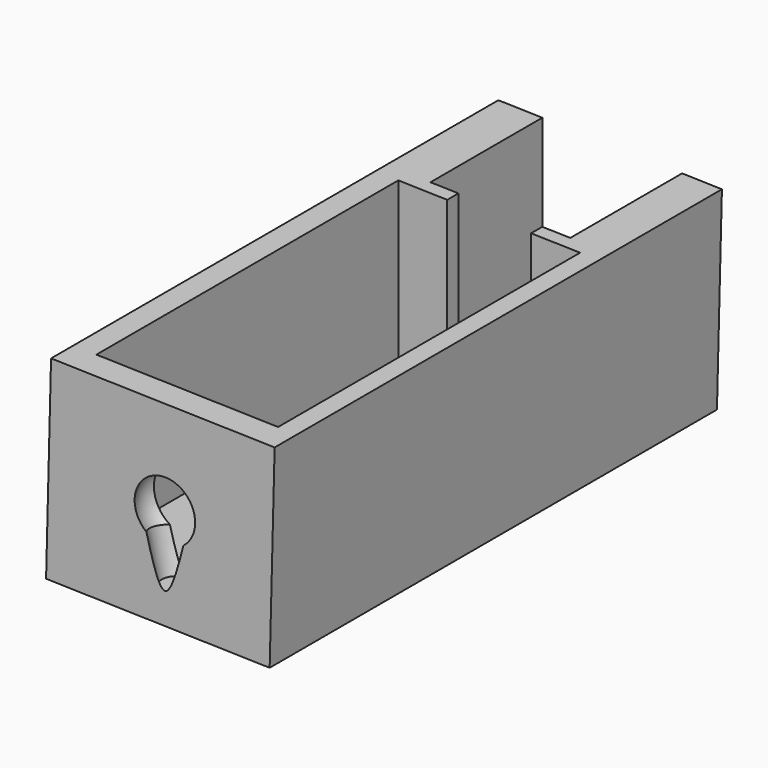
from build123d import *

# Parameters (mm, degrees)
BOX003_W        = 6
BOX003_H        = 4
BOX003_DEPTH    = 15
BOX002_W        = 10
BOX002_H        = 10
BOX002_DEPTH    = 15
BOX001_W        = 13
BOX001_H        = 27
BOX001_DEPTH    = 12
BOX_W           = 16
BOX_H           = 40
BOX_DEPTH       = 14
BOX_PITCH_ANGLE = 1.455764


with BuildPart() as cone:
    # Cone → Cone (revolve)
    with BuildSketch(Plane(origin=(8.5, 1, 2), x_dir=(1, 0, 0), z_dir=(0, -1, 0))):
        Polygon((0, 0), (1, 0), (2, 5), (0, 5), align=None)
    revolve(axis=Axis((8.5, 1, 2), (0, 0, 1)))


with BuildPart() as pinhole:
    # Sphere → Sphere (revolve)
    with BuildSketch(Plane(origin=(8.5, 1.25, 7), x_dir=(1, 0, 0), z_dir=(0, -1, 0))):
        with BuildLine():
            ThreePointArc((0, -2.5), (2.5, 0), (0, 2.5))
            Line((0, 2.5), (0, -2.5))
        make_face()
    revolve(axis=Axis((8.5, 1.25, 7), (0, 0, 1)))


with BuildPart() as neck:
    # Box003 → Box003 (new body)
    with BuildSketch(Plane(origin=(5.5, 28, 4), x_dir=(1, 0, 0), z_dir=(0, 0, 1))):
        with Locations((3, 2)):
            Rectangle(BOX003_W, BOX003_H)
    extrude(amount=BOX003_DEPTH)


with BuildPart() as pullbay:
    # Box002 → Box002 (new body)
    with BuildSketch(Plane(origin=(3.5, 30, 2), x_dir=(1, 0, 0), z_dir=(0, 0, 1))):
        with Locations((5, 5)):
            Rectangle(BOX002_W, BOX002_H)
    extrude(amount=BOX002_DEPTH)


with BuildPart() as solenoidbay:
    # Box001 → Box001 (new body)
    with BuildSketch(Plane(origin=(2, 2, 2), x_dir=(1, 0, 0), z_dir=(0, 0, 1))):
        with Locations((6.5, 13.5)):
            Rectangle(BOX001_W, BOX001_H)
    extrude(amount=BOX001_DEPTH)


with BuildPart() as cut004:
    # Box → Box (new body)
    with BuildSketch(Plane.XY):
        with Locations((8, 20)):
            Rectangle(BOX_W, BOX_H)
    extrude(amount=BOX_DEPTH)


with BuildPart() as cut004_1:
    # Box pitch: moved
    add(cut004.part.rotate(Axis((0, 0, 0), (0, 1, 0)), BOX_PITCH_ANGLE))


with BuildPart() as cut004_2:
    # Box placement: moved
    add(cut004_1.part)

    # Cut: cut solenoidBay
    add(solenoidbay.part, mode=Mode.SUBTRACT)

    # Cut001: cut pullBay
    add(pullbay.part, mode=Mode.SUBTRACT)

    # Cut002: cut neck
    add(neck.part, mode=Mode.SUBTRACT)

    # Cut003: cut pinhole
    add(pinhole.part, mode=Mode.SUBTRACT)

    # Cut004: cut Cone
    add(cone.part, mode=Mode.SUBTRACT)


solid = cut004_2.part
